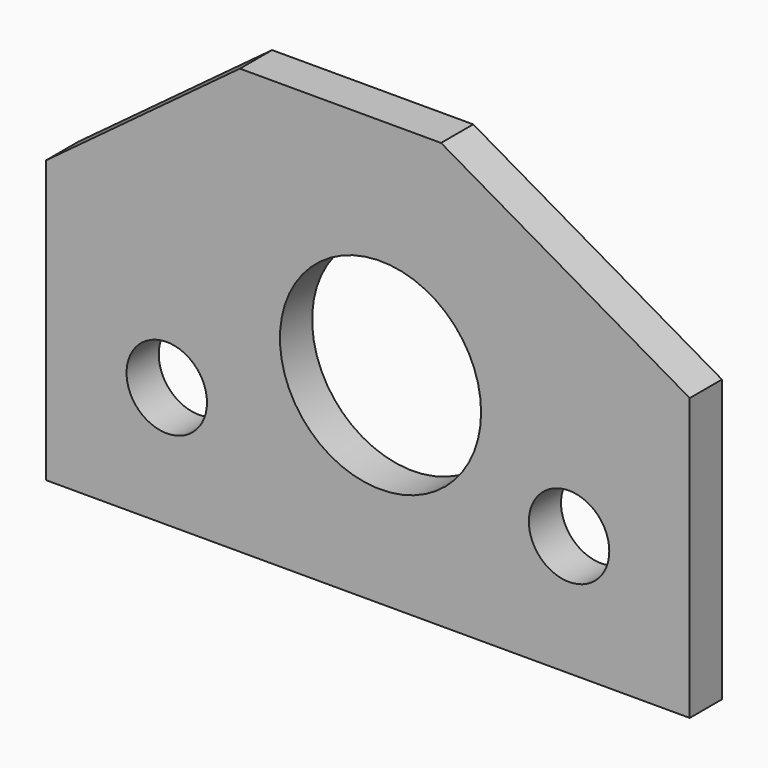
from build123d import *

# Parameters (mm, degrees)
F0_R     = 6.35
F0_R_2   = 15.875
F1_DEPTH = 6.35


with BuildPart() as f1:
    # F0 (on Front) → F1 (new body)
    with BuildSketch(Plane.XZ):
        Polygon((-52.790296, 10.877535), (-52.790296, -33.572465), (48.809704, -33.572465), (48.809704, 10.877535), (9.553431, 33.566941), (-22.196569, 33.566941), align=None)
        with Locations((-33.740296, -14.522465)):
            Circle(F0_R, mode=Mode.SUBTRACT)
        with Locations((0, -1.822465)):
            Circle(F0_R_2, mode=Mode.SUBTRACT)
        with Locations((29.759704, -14.522465)):
            Circle(F0_R, mode=Mode.SUBTRACT)
    extrude(amount=F1_DEPTH)


solid = f1.part
